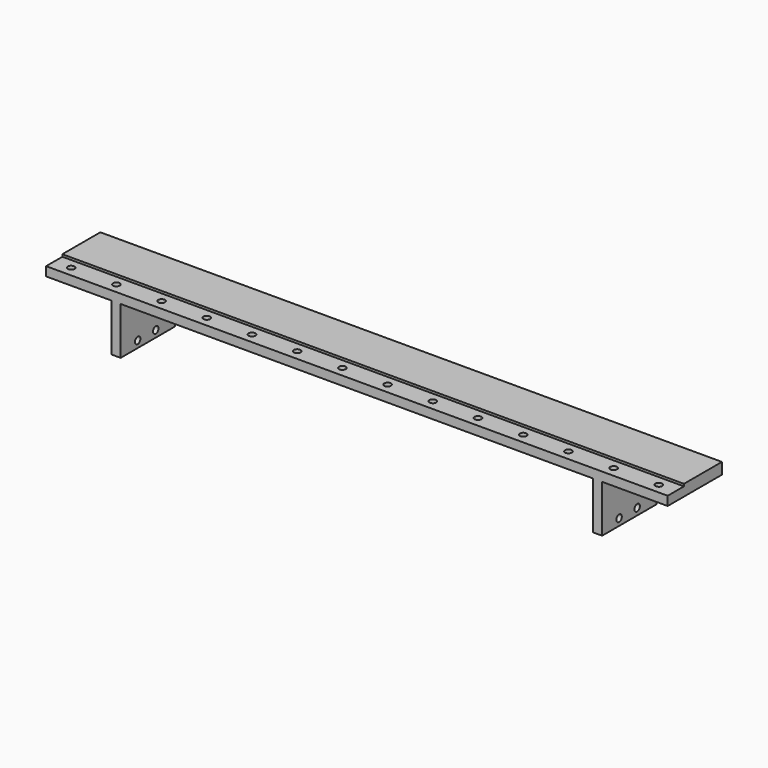
from build123d import *

# Parameters (mm, degrees)
SKETCH007_W            = 275
SKETCH007_H            = 30
PAD003_DEPTH           = 26
SKETCH008_W            = 9
SKETCH008_H            = 1
POCKET004_DEPTH        = 275
SKETCH009_R            = 1.5
POCKET005_DEPTH        = 6
LINEARPATTERN001_COUNT = 14
LINEARPATTERN001_PITCH = 20
SKETCH017_W            = 29
SKETCH017_H            = 21
SKETCH017_W_2          = 209
POCKET010_DEPTH        = 30
SKETCH018_R            = 1.5
POCKET011_DEPTH        = 275


with BuildPart() as part:
    # Sketch007 → Pad003 (new body)
    with BuildSketch(Plane.XY):
        with Locations((-137.5, 15)):
            Rectangle(SKETCH007_W, SKETCH007_H)
    extrude(amount=PAD003_DEPTH)

    # Sketch008 (on Face2 of Pad003) → Pocket004 (cut)
    with BuildSketch(Plane.YZ):
        with Locations((4.5, 25.5)):
            Rectangle(SKETCH008_W, SKETCH008_H)
    extrude(amount=-POCKET004_DEPTH, mode=Mode.SUBTRACT)

    # Sketch009 (on Face5 of Pocket004) → Pocket005 (cut)
    with BuildSketch(Plane.XY.offset(26)):
        with Locations((-7.5, 4.5)):
            Circle(SKETCH009_R)
    pocket005 = extrude(amount=-POCKET005_DEPTH, mode=Mode.SUBTRACT)

    # LinearPattern001: Pocket005 ×14
    with Locations(*[(-i * LINEARPATTERN001_PITCH, 0, 0) for i in range(1, LINEARPATTERN001_COUNT)]):
        add(pocket005, mode=Mode.SUBTRACT)

    # Sketch017 → Pocket010 (cut)
    with BuildSketch(Plane.XZ):
        with Locations((-14.5, 10.5)):
            Rectangle(SKETCH017_W, SKETCH017_H)
        with Locations((-260.5, 10.5)):
            Rectangle(SKETCH017_W, SKETCH017_H)
        with Locations((-137.5, 10.5)):
            Rectangle(SKETCH017_W_2, SKETCH017_H)
    extrude(amount=-POCKET010_DEPTH, mode=Mode.SUBTRACT)

    # Sketch018 → Pocket011 (cut)
    with BuildSketch(Plane.YZ):
        with Locations((9.4, 18)):
            Circle(SKETCH018_R)
        with Locations((19.4, 18)):
            Circle(SKETCH018_R)
        with Locations((9.4, 3)):
            Circle(SKETCH018_R)
        with Locations((19.4, 3)):
            Circle(SKETCH018_R)
    extrude(amount=-POCKET011_DEPTH, mode=Mode.SUBTRACT)


solid = part.part
